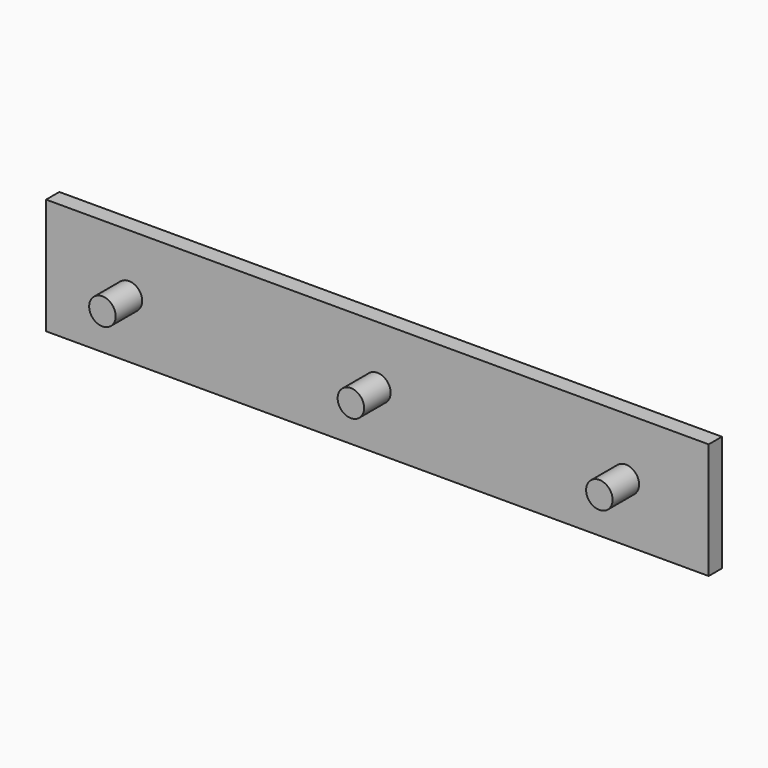
from build123d import *

# Parameters (mm, degrees)
F0_W     = 200
F0_H     = 35
F1_DEPTH = 5
F2_R     = 4
F3_DEPTH = 10


with BuildPart() as f1:
    # F0 (on Front) → F1 (new body)
    with BuildSketch(Plane.XZ):
        Rectangle(F0_W, F0_H)
    extrude(amount=F1_DEPTH)

    # F2 (on face) → F3 (join)
    with BuildSketch(Plane.XZ.offset(5)):
        with Locations((-75, 0)):
            Circle(F2_R)
        Circle(F2_R)
        with Locations((75, 0)):
            Circle(F2_R)
    extrude(amount=F3_DEPTH)


solid = f1.part
